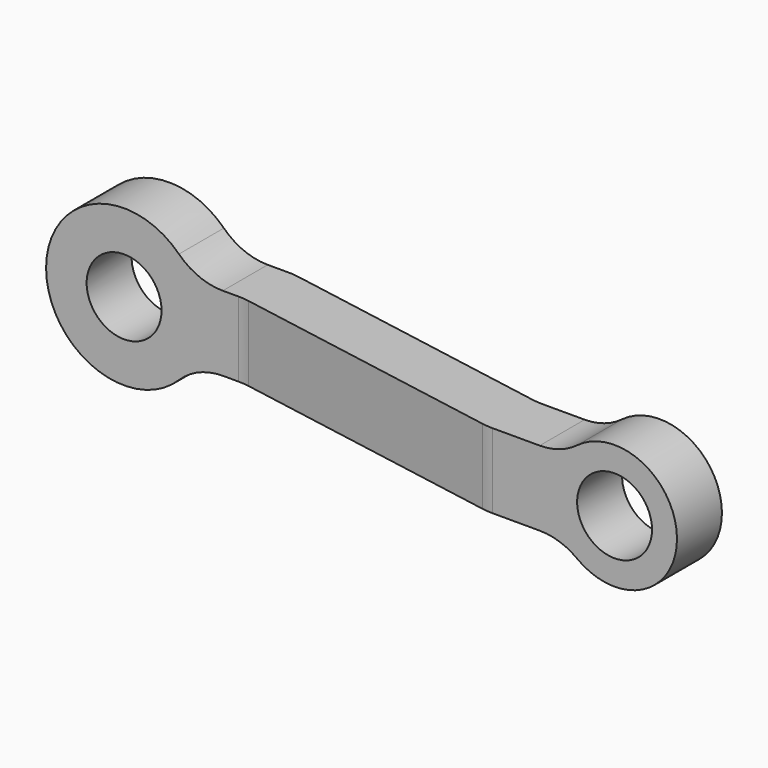
from build123d import *

# Parameters (mm, degrees)
F0_R     = 6
F1_DEPTH = 25
F2_W     = 18
F2_H     = 9
F3_DEPTH = 12.5
F4_R     = 10


with BuildPart() as f1:
    # F0 (on Front) → F1 (new body)
    with BuildSketch(Plane.XZ):
        with BuildLine():
            Line((77, 6), (10.965856, 6))
            ThreePointArc((10.965856, 6), (-12.5, 0), (10.965856, -6))
            Line((10.965856, -6), (77, -6))
            ThreePointArc((77, -6), (95, 0), (77, 6))
        make_face()
        Circle(F0_R, mode=Mode.SUBTRACT)
        with Locations((85, 0)):
            Circle(F0_R, mode=Mode.SUBTRACT)
    extrude(amount=F1_DEPTH)

    # F2 (on Top) → F3 (intersect, symmetric)
    with BuildSketch(Plane.XY):
        Polygon((20, 0), (-12.5, 0), (-12.5, -9), (19.212602, -9), (64.582857, -17), (77, -17), (77, -8), (65.370255, -8), align=None)
        with Locations((86, -12.5)):
            Rectangle(F2_W, F2_H)
    extrude(amount=F3_DEPTH, both=True, mode=Mode.INTERSECT)

    # F4
    f4_edges = [f1.edges().sort_by_distance(p)[0] for p in [
        (10.965856, -4.5, 6),
        (77, -12.5, 6),
        (20, 0, 0),
        (65.370255, -8, 0),
        (77, -12.5, -6),
        (10.965856, -4.5, -6),
        (64.582857, -17, 0),
        (19.212602, -9, 0),
    ]]
    fillet(f4_edges, radius=F4_R)


solid = f1.part
